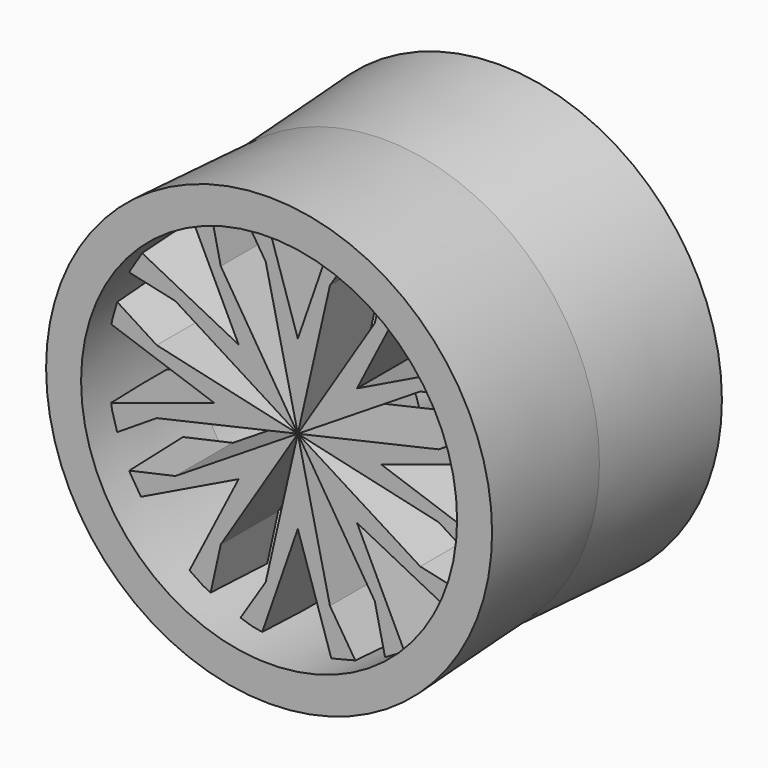
from build123d import *

# Parameters (mm, degrees)
F0_R     = 19.05
F0_R_2   = 17.2876039587
F1_DEPTH = 12.7
F1_TAPER = -3
F2_R     = 5.7847232748
F3_DEPTH = 3.175
F6_DEPTH = 6.35
F7_COUNT = 8
F7_ANGLE = 315


with BuildPart() as f1:
    # F0 (on Front) → F1 (new body, symmetric)
    with BuildSketch(Plane.XZ):
        Circle(F0_R)
        Circle(F0_R_2, mode=Mode.SUBTRACT)
    extrude(amount=F1_DEPTH, both=True, taper=F1_TAPER)


with BuildPart() as f3:
    # F2 (on Front) → F3 (new body)
    with BuildSketch(Plane.XZ):
        Circle(F2_R)
    extrude(amount=F3_DEPTH)


with BuildPart() as f6:
    # F5 (on offset) → F6 (new body)
    with BuildSketch(Plane.XZ.offset(3.175)):
        Polygon((12.471829541, 2.8397594579), (0, 0), (7.3995459825, 0), (16.6808050126, 3.0129572842), (16.6808050126, 5.5218865164), align=None)
        Polygon((7.3995459825, 0), (0, 0), (12.471829541, -2.8397594579), (16.6808050126, -5.5218865164), (16.6808050126, -3.2222222071), align=None)
    extrude(amount=F6_DEPTH)


with BuildPart() as f7_1:
    # F7: instance of F6
    add(f6.part.rotate(Axis((0, -3.175, 0), (0, -1, 0)), 1 * F7_ANGLE / (F7_COUNT - 1)))


with BuildPart() as f7_2:
    # F7: instance of F6
    add(f6.part.rotate(Axis((0, -3.175, 0), (0, -1, 0)), 2 * F7_ANGLE / (F7_COUNT - 1)))


with BuildPart() as f7_3:
    # F7: instance of F6
    add(f6.part.rotate(Axis((0, -3.175, 0), (0, -1, 0)), 3 * F7_ANGLE / (F7_COUNT - 1)))


with BuildPart() as f7_4:
    # F7: instance of F6
    add(f6.part.rotate(Axis((0, -3.175, 0), (0, -1, 0)), 4 * F7_ANGLE / (F7_COUNT - 1)))


with BuildPart() as f7_5:
    # F7: instance of F6
    add(f6.part.rotate(Axis((0, -3.175, 0), (0, -1, 0)), 5 * F7_ANGLE / (F7_COUNT - 1)))


with BuildPart() as f7_6:
    # F7: instance of F6
    add(f6.part.rotate(Axis((0, -3.175, 0), (0, -1, 0)), 6 * F7_ANGLE / (F7_COUNT - 1)))


with BuildPart() as f7_7:
    # F7: instance of F6
    add(f6.part.rotate(Axis((0, -3.175, 0), (0, -1, 0)), 7 * F7_ANGLE / (F7_COUNT - 1)))


solid = Compound([f1.part, f3.part, f6.part, f7_1.part, f7_2.part, f7_3.part, f7_4.part, f7_5.part, f7_6.part, f7_7.part])
